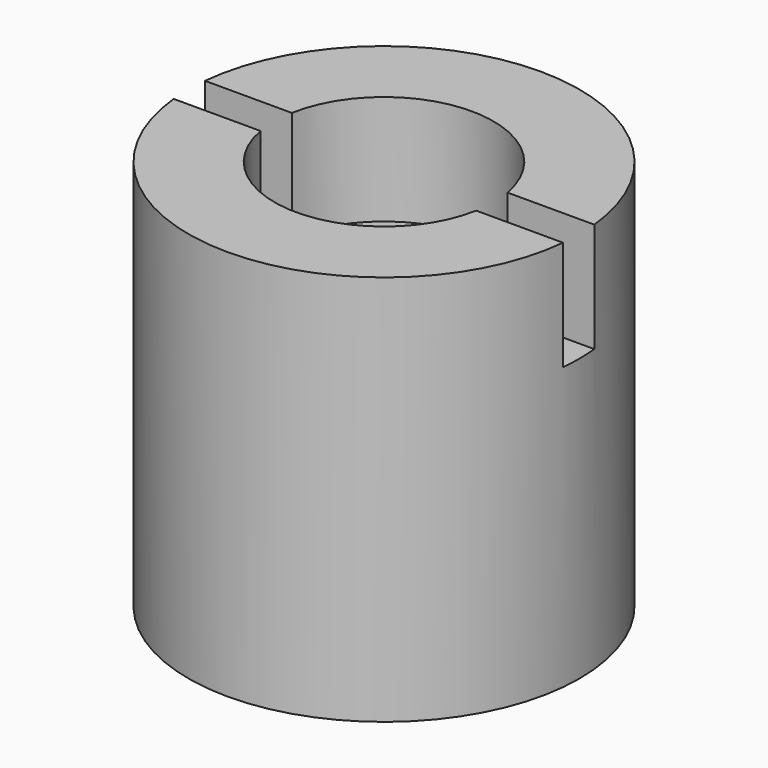
from build123d import *

# Parameters (mm, degrees)
F1_R     = 12.5
F1_R_2   = 2
F2_DEPTH = 25
F0_R     = 2
F3_DEPTH = 15
F5_DEPTH = 7


with BuildPart() as f2:
    # F1 (on Top) → F2 (new body)
    with BuildSketch(Plane.XY):
        Circle(F1_R)
        Circle(F1_R_2, mode=Mode.SUBTRACT)
    extrude(amount=F2_DEPTH)

    # F0 (on Top) → F3 (cut)
    with BuildSketch(Plane.XY):
        with BuildLine():
            Line((3.605551, 6), (-3.605551, 6))
            ThreePointArc((-3.605551, 6), (-4.949747, -4.949747), (6, -3.605551))
            Line((6, -3.605551), (6, 3.605551))
            ThreePointArc((6, 3.605551), (4.949747, 4.949747), (3.605551, 6))
        make_face()
        Circle(F0_R, mode=Mode.SUBTRACT)
    extrude(amount=F3_DEPTH, mode=Mode.SUBTRACT)

    # F4 (on face) → F5 (cut)
    with BuildSketch(Plane.XY.offset(25)):
        with BuildLine():
            Line((-12.437343, -1.25), (-12.437343, 1.25))
            ThreePointArc((-12.437343, 1.25), (-12.5, 0), (-12.437343, -1.25))
        make_face()
        with BuildLine():
            Line((-6.887489, 1.25), (-12.437343, 1.25))
            Line((-12.437343, 1.25), (-12.437343, -1.25))
            Line((-12.437343, -1.25), (-6.887489, -1.25))
            ThreePointArc((-6.887489, -1.25), (0, -7), (6.887489, -1.25))
            Line((6.887489, -1.25), (12.437343, -1.25))
            Line((12.437343, -1.25), (12.437343, 1.25))
            Line((12.437343, 1.25), (6.887489, 1.25))
            ThreePointArc((6.887489, 1.25), (0, 7), (-6.887489, 1.25))
        make_face()
        with BuildLine():
            ThreePointArc((12.437343, -1.25), (12.5, 0), (12.437343, 1.25))
            Line((12.437343, 1.25), (12.437343, -1.25))
        make_face()
    extrude(amount=-F5_DEPTH, mode=Mode.SUBTRACT)


solid = f2.part
